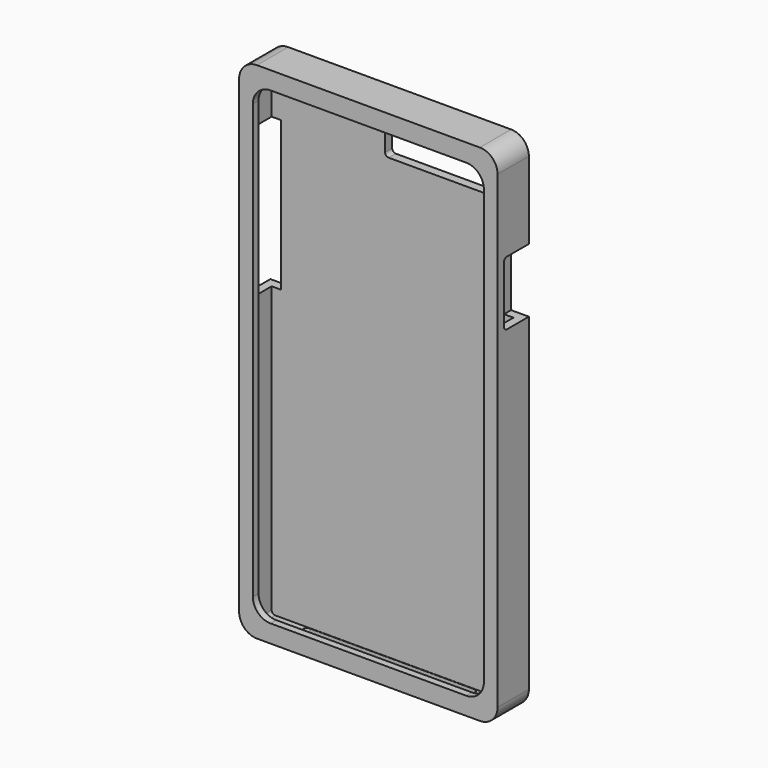
from build123d import *

# Parameters (mm, degrees)
F1_DEPTH  = 9
F3_DEPTH  = 6.5
F5_DEPTH  = 5
F7_DEPTH  = 5
F9_DEPTH  = 11.3
F11_DEPTH = 3
F13_DEPTH = 2
F15_DEPTH = 2


with BuildPart() as f1:
    # F0 (on Front) → F1 (new body)
    with BuildSketch(Plane.XZ):
        with BuildLine():
            Line((31.35, 71), (-31.35, 71))
            ThreePointArc((-31.35, 71), (-34.8855339059, 69.5355339059), (-36.35, 66))
            Line((-36.35, 66), (-36.35, -66))
            ThreePointArc((-36.35, -66), (-34.8855339059, -69.5355339059), (-31.35, -71))
            Line((-31.35, -71), (31.35, -71))
            ThreePointArc((31.35, -71), (34.8855339059, -69.5355339059), (36.35, -66))
            Line((36.35, -66), (36.35, 66))
            ThreePointArc((36.35, 66), (34.8855339059, 69.5355339059), (31.35, 71))
        make_face()
        with BuildLine():
            Line((31.35, 71), (-31.35, 71))
            ThreePointArc((-31.35, 71), (-34.8855339059, 69.5355339059), (-36.35, 66))
            Line((-36.35, 66), (-36.35, -66))
            ThreePointArc((-36.35, -66), (-34.8855339059, -69.5355339059), (-31.35, -71))
            Line((-31.35, -71), (31.35, -71))
            ThreePointArc((31.35, -71), (34.8855339059, -69.5355339059), (36.35, -66))
            Line((36.35, -66), (36.35, 66))
            ThreePointArc((36.35, 66), (34.8855339059, 69.5355339059), (31.35, 71))
        make_face()
    extrude(amount=F1_DEPTH)

    # F2 (on face) → F3 (cut)
    with BuildSketch(Plane.XZ.offset(9)):
        with BuildLine():
            Line((33, 69.25), (-33, 69.25))
            ThreePointArc((-33, 69.25), (-33.7071067812, 68.9571067812), (-34, 68.25))
            Line((-34, 68.25), (-34, -68.25))
            ThreePointArc((-34, -68.25), (-33.7071067812, -68.9571067812), (-33, -69.25))
            Line((-33, -69.25), (33, -69.25))
            ThreePointArc((33, -69.25), (33.7071067812, -68.9571067812), (34, -68.25))
            Line((34, -68.25), (34, 68.25))
            ThreePointArc((34, 68.25), (33.7071067812, 68.9571067812), (33, 69.25))
        make_face()
    extrude(amount=-F3_DEPTH, mode=Mode.SUBTRACT)

    # F4 (on face) → F5 (cut)
    with BuildSketch(Plane.YZ.offset(36.35)):
        with BuildLine():
            Line((-4.6452410497, 26.2636251819), (-2.8310960583, 26.2636251819))
            Line((-2.8310960583, 26.2636251819), (0, 26.2636251819))
            Line((0, 26.2636251819), (0, 44.2636251819))
            Line((0, 44.2636251819), (-1.15, 44.2636251819))
            Line((-1.15, 44.2636251819), (-6.238168554, 44.2636251819))
            Line((-6.238168554, 44.2636251819), (-6.326337108, 44.2636251819))
            Line((-6.326337108, 44.2636251819), (-7.738168554, 44.2636251819))
            ThreePointArc((-7.738168554, 44.2636251819), (-8.4452753352, 43.9707319631), (-8.738168554, 43.2636251819))
            Line((-8.738168554, 43.2636251819), (-8.738168554, 27.2636251819))
            ThreePointArc((-8.738168554, 27.2636251819), (-8.4452753352, 26.5565184007), (-7.738168554, 26.2636251819))
            Line((-7.738168554, 26.2636251819), (-4.6452410497, 26.2636251819))
        make_face()
        with BuildLine():
            Line((0, 44.2636251819), (0, 26.2636251819))
            Line((0, 26.2636251819), (0.261831446, 26.2636251819))
            ThreePointArc((0.261831446, 26.2636251819), (0.9689382272, 26.5565184007), (1.261831446, 27.2636251819))
            Line((1.261831446, 27.2636251819), (1.261831446, 43.2636251819))
            ThreePointArc((1.261831446, 43.2636251819), (0.9689382272, 43.9707319631), (0.261831446, 44.2636251819))
            Line((0.261831446, 44.2636251819), (0, 44.2636251819))
        make_face()
    extrude(amount=-F5_DEPTH, mode=Mode.SUBTRACT)

    # F6 (on face) → F7 (cut)
    with BuildSketch(Plane(origin=(-36.35, 0, 0), x_dir=(0, -1, 0), z_dir=(-1, 0, 0))):
        Polygon((0, 53.926020956), (0, 11.926020956), (1.3606869444, 11.926020956), (5.3289291725, 11.926020956), (7.5948080584, 11.926020956), (8.6544789374, 11.9307097048), (8.6544789374, 53.926020956), (6.6106869444, 53.926020956), (5.3289291725, 53.926020956), (1.3606869444, 53.926020956), align=None)
        with BuildLine():
            ThreePointArc((-5.1551919416, 12.926020956), (-4.8622987227, 12.2189141749), (-4.1551919416, 11.926020956))
            Line((-4.1551919416, 11.926020956), (0, 11.926020956))
            Line((0, 11.926020956), (0, 53.926020956))
            Line((0, 53.926020956), (-4.2237708107, 53.926020956))
            ThreePointArc((-4.2237708107, 53.926020956), (-4.9107913061, 53.5846351538), (-5.1551919416, 52.8574420869))
            Line((-5.1551919416, 52.8574420869), (-5.1551919416, 12.926020956))
        make_face()
    extrude(amount=-F7_DEPTH, mode=Mode.SUBTRACT)

    # F8 (on face) → F9 (cut)
    with BuildSketch(Plane(origin=(0, 0, -71), x_dir=(1, 0, 0), z_dir=(0, 0, -1))):
        with BuildLine():
            Line((-23.15, 2.6055127643), (23.15, 2.6055127643))
            ThreePointArc((23.15, 2.6055127643), (23.8571067812, 2.8984059831), (24.15, 3.6055127643))
            Line((24.15, 3.6055127643), (24.15, 5.5759565953))
            Line((24.15, 5.5759565953), (-24.15, 5.6350689333))
            Line((-24.15, 5.6350689333), (-24.15, 3.6055127643))
            ThreePointArc((-24.15, 3.6055127643), (-23.8571067812, 2.8984059831), (-23.15, 2.6055127643))
        make_face()
        with BuildLine():
            Line((-24.15, 5.6350689333), (24.15, 5.5759565953))
            Line((24.15, 5.5759565953), (24.15, 7.6055127643))
            ThreePointArc((24.15, 7.6055127643), (23.8571067812, 8.3126195455), (23.15, 8.6055127643))
            Line((23.15, 8.6055127643), (-23.15, 8.6055127643))
            ThreePointArc((-23.15, 8.6055127643), (-23.8571067812, 8.3126195455), (-24.15, 7.6055127643))
            Line((-24.15, 7.6055127643), (-24.15, 5.6350689333))
        make_face()
    extrude(amount=-F9_DEPTH, mode=Mode.SUBTRACT)

    # F10 (on face) → F11 (cut)
    with BuildSketch(Plane(origin=(0, 0, 0), x_dir=(-1, 0, 0), z_dir=(0, 1, 0))):
        with BuildLine():
            ThreePointArc((-29.8940427601, 55.4671416283), (-29.6011495413, 54.7600348471), (-28.8940427601, 54.4671416283))
            Line((-28.8940427601, 54.4671416283), (1.1059572399, 54.4671416283))
            ThreePointArc((1.1059572399, 54.4671416283), (1.8130640211, 54.7600348471), (2.1059572399, 55.4671416283))
            Line((2.1059572399, 55.4671416283), (2.1059572399, 65.6569396853))
            ThreePointArc((2.1059572399, 65.6569396853), (1.8130640211, 66.3640464665), (1.1059572399, 66.6569396853))
            Line((1.1059572399, 66.6569396853), (-28.8940427601, 66.6569396853))
            ThreePointArc((-28.8940427601, 66.6569396853), (-29.6011495413, 66.3640464665), (-29.8940427601, 65.6569396853))
            Line((-29.8940427601, 65.6569396853), (-29.8940427601, 55.4671416283))
        make_face()
    extrude(amount=-F11_DEPTH, mode=Mode.SUBTRACT)

    # F12 (on face) → F13 (join)
    with BuildSketch(Plane.XZ.offset(9)):
        with BuildLine():
            Line((31.35, 71), (-31.35, 71))
            ThreePointArc((-31.35, 71), (-34.8855339059, 69.5355339059), (-36.35, 66))
            Line((-36.35, 66), (-36.35, -66))
            ThreePointArc((-36.35, -66), (-34.8855339059, -69.5355339059), (-31.35, -71))
            Line((-31.35, -71), (31.35, -71))
            ThreePointArc((31.35, -71), (34.8855339059, -69.5355339059), (36.35, -66))
            Line((36.35, -66), (36.35, 66))
            ThreePointArc((36.35, 66), (34.8855339059, 69.5355339059), (31.35, 71))
        make_face()
    extrude(amount=F13_DEPTH)

    # F14 (on face) → F15 (cut)
    with BuildSketch(Plane.XZ.offset(11)):
        with BuildLine():
            Line((27.5, 66), (-23.9265979081, 66))
            Line((-23.9265979081, 66), (-27.5, 66))
            ThreePointArc((-27.5, 66), (-31.0355339059, 64.5355339059), (-32.5, 61))
            Line((-32.5, 61), (-32.5, -61))
            ThreePointArc((-32.5, -61), (-31.0355339059, -64.5355339059), (-27.5, -66))
            Line((-27.5, -66), (27.5, -66))
            ThreePointArc((27.5, -66), (31.0355339059, -64.5355339059), (32.5, -61))
            Line((32.5, -61), (32.5, 61))
            ThreePointArc((32.5, 61), (31.0355339059, 64.5355339059), (27.5, 66))
        make_face()
    extrude(amount=-F15_DEPTH, mode=Mode.SUBTRACT)


solid = f1.part
